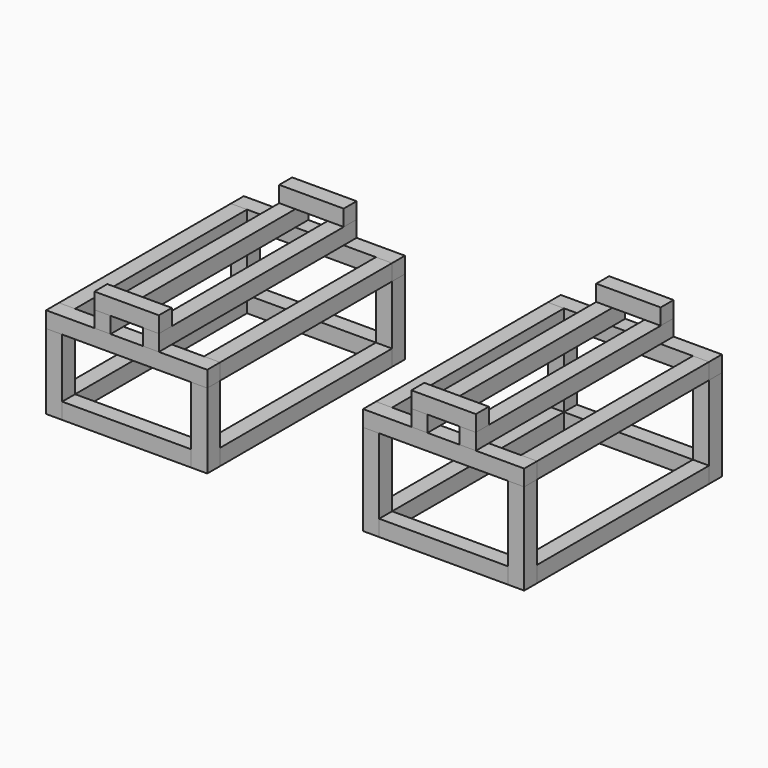
from build123d import *

# Parameters (mm, degrees)
F1_W      = 30
F1_H      = 460
F2_DEPTH  = 30
F4_W      = 300
F4_H      = 30
F5_DEPTH  = 30
F6_W      = 30
F6_H      = 30
F7_DEPTH  = 140
F8_W      = 30
F8_H      = 30
F9_DEPTH  = 240
F10_W     = 30
F10_H     = 30
F11_DEPTH = 400
F12_W     = 120
F12_H     = 30
F13_DEPTH = 30
F14_W     = 300
F14_H     = 30
F15_DEPTH = 30
F16_W     = 30
F16_H     = 30
F17_DEPTH = 170
F18_W     = 30
F18_H     = 30
F19_DEPTH = 240
F20_W     = 30
F20_H     = 30
F21_DEPTH = 400
F22_W     = 120
F22_H     = 30
F23_DEPTH = 30


with BuildPart() as f2:
    # F1 (on offset) → F2 (new body)
    with BuildSketch(Plane.XY.offset(200)):
        with Locations((-250, 0)):
            Rectangle(F1_W, F1_H)
    extrude(amount=-F2_DEPTH)


with BuildPart() as f2b:
    # F1 (on offset) → F2, piece 2 (new body)
    with BuildSketch(Plane.XY.offset(200)):
        with Locations((-340, 0)):
            Rectangle(F1_W, F1_H)
    extrude(amount=-F2_DEPTH)


with BuildPart() as f2c:
    # F1 (on offset) → F2, piece 3 (new body)
    with BuildSketch(Plane.XY.offset(200)):
        with Locations((250, 0)):
            Rectangle(F1_W, F1_H)
    extrude(amount=-F2_DEPTH)


with BuildPart() as f2d:
    # F1 (on offset) → F2, piece 4 (new body)
    with BuildSketch(Plane.XY.offset(200)):
        with Locations((340, 0)):
            Rectangle(F1_W, F1_H)
    extrude(amount=-F2_DEPTH)


with BuildPart() as f2c_1:
    # F3: moved
    add(f2c.part.moved(Location((0, 0, 30))))


with BuildPart() as f2d_1:
    # F3: moved
    add(f2d.part.moved(Location((0, 0, 30))))


with BuildPart() as f5:
    # F4 (on face) → F5 (new body)
    with BuildSketch(Plane(origin=(0, 0, 170), x_dir=(1, 0, 0), z_dir=(0, 0, -1))):
        with Locations((-295, 215)):
            Rectangle(F4_W, F4_H)
    extrude(amount=F5_DEPTH)


with BuildPart() as f5b:
    # F4 (on face) → F5, piece 2 (new body)
    with BuildSketch(Plane(origin=(0, 0, 170), x_dir=(1, 0, 0), z_dir=(0, 0, -1))):
        with Locations((-295, -215)):
            Rectangle(F4_W, F4_H)
    extrude(amount=F5_DEPTH)


with BuildPart() as f7:
    # F6 (on Top) → F7 (new body, through all)
    with BuildSketch(Plane.XY):
        with Locations((-160, -215)):
            Rectangle(F6_W, F6_H)
    extrude(amount=F7_DEPTH)


with BuildPart() as f7b:
    # F6 (on Top) → F7, piece 2 (new body, through all)
    with BuildSketch(Plane.XY):
        with Locations((-160, 215)):
            Rectangle(F6_W, F6_H)
    extrude(amount=F7_DEPTH)


with BuildPart() as f7c:
    # F6 (on Top) → F7, piece 3 (new body, through all)
    with BuildSketch(Plane.XY):
        with Locations((-430, -215)):
            Rectangle(F6_W, F6_H)
    extrude(amount=F7_DEPTH)


with BuildPart() as f7d:
    # F6 (on Top) → F7, piece 4 (new body, through all)
    with BuildSketch(Plane.XY):
        with Locations((-430, 215)):
            Rectangle(F6_W, F6_H)
    extrude(amount=F7_DEPTH)


with BuildPart() as f9:
    # F8 (on face) → F9 (new body, through all)
    with BuildSketch(Plane.YZ.offset(-415)):
        with Locations((-215, 15)):
            Rectangle(F8_W, F8_H)
    extrude(amount=F9_DEPTH)


with BuildPart() as f9b:
    # F8 (on face) → F9, piece 2 (new body, through all)
    with BuildSketch(Plane.YZ.offset(-415)):
        with Locations((215, 15)):
            Rectangle(F8_W, F8_H)
    extrude(amount=F9_DEPTH)


with BuildPart() as f11:
    # F10 (on face) → F11 (new body, through all)
    with BuildSketch(Plane.XZ.offset(-200)):
        with Locations((-430, 15)):
            Rectangle(F10_W, F10_H)
    extrude(amount=F11_DEPTH)


with BuildPart() as f11b:
    # F10 (on face) → F11, piece 2 (new body, through all)
    with BuildSketch(Plane.XZ.offset(-200)):
        with Locations((-160, 15)):
            Rectangle(F10_W, F10_H)
    extrude(amount=F11_DEPTH)


with BuildPart() as f11c:
    # F10 (on face) → F11, piece 3 (new body, through all)
    with BuildSketch(Plane.XZ.offset(-200)):
        with Locations((-430, 155)):
            Rectangle(F10_W, F10_H)
    extrude(amount=F11_DEPTH)


with BuildPart() as f11d:
    # F10 (on face) → F11, piece 4 (new body, through all)
    with BuildSketch(Plane.XZ.offset(-200)):
        with Locations((-160, 155)):
            Rectangle(F10_W, F10_H)
    extrude(amount=F11_DEPTH)


with BuildPart() as f13:
    # F12 (on face) → F13 (new body)
    with BuildSketch(Plane.XY.offset(200)):
        with Locations((-295, -215)):
            Rectangle(F12_W, F12_H)
    extrude(amount=F13_DEPTH)


with BuildPart() as f13b:
    # F12 (on face) → F13, piece 2 (new body)
    with BuildSketch(Plane.XY.offset(200)):
        with Locations((-295, 215)):
            Rectangle(F12_W, F12_H)
    extrude(amount=F13_DEPTH)


with BuildPart() as f15:
    # F14 (on face) → F15 (new body)
    with BuildSketch(Plane(origin=(0, 0, 200), x_dir=(1, 0, 0), z_dir=(0, 0, -1))):
        with Locations((295, 215)):
            Rectangle(F14_W, F14_H)
    extrude(amount=F15_DEPTH)


with BuildPart() as f15b:
    # F14 (on face) → F15, piece 2 (new body)
    with BuildSketch(Plane(origin=(0, 0, 200), x_dir=(1, 0, 0), z_dir=(0, 0, -1))):
        with Locations((295, -215)):
            Rectangle(F14_W, F14_H)
    extrude(amount=F15_DEPTH)


with BuildPart() as f17:
    # F16 (on Top) → F17 (new body, through all)
    with BuildSketch(Plane.XY):
        with Locations((160, -215)):
            Rectangle(F16_W, F16_H)
    extrude(amount=F17_DEPTH)


with BuildPart() as f17b:
    # F16 (on Top) → F17, piece 2 (new body, through all)
    with BuildSketch(Plane.XY):
        with Locations((430, -215)):
            Rectangle(F16_W, F16_H)
    extrude(amount=F17_DEPTH)


with BuildPart() as f17c:
    # F16 (on Top) → F17, piece 3 (new body, through all)
    with BuildSketch(Plane.XY):
        with Locations((430, 215)):
            Rectangle(F16_W, F16_H)
    extrude(amount=F17_DEPTH)


with BuildPart() as f17d:
    # F16 (on Top) → F17, piece 4 (new body, through all)
    with BuildSketch(Plane.XY):
        with Locations((160, 215)):
            Rectangle(F16_W, F16_H)
    extrude(amount=F17_DEPTH)


with BuildPart() as f19:
    # F18 (on face) → F19 (new body, through all)
    with BuildSketch(Plane.YZ.offset(175)):
        with Locations((-215, 15)):
            Rectangle(F18_W, F18_H)
    extrude(amount=F19_DEPTH)


with BuildPart() as f19b:
    # F18 (on face) → F19, piece 2 (new body, through all)
    with BuildSketch(Plane.YZ.offset(175)):
        with Locations((215, 15)):
            Rectangle(F18_W, F18_H)
    extrude(amount=F19_DEPTH)


with BuildPart() as f21:
    # F20 (on face) → F21 (new body, through all)
    with BuildSketch(Plane(origin=(0, -200, 0), x_dir=(-1, 0, 0), z_dir=(0, 1, 0))):
        with Locations((-160, 15)):
            Rectangle(F20_W, F20_H)
    extrude(amount=F21_DEPTH)


with BuildPart() as f21b:
    # F20 (on face) → F21, piece 2 (new body, through all)
    with BuildSketch(Plane(origin=(0, -200, 0), x_dir=(-1, 0, 0), z_dir=(0, 1, 0))):
        with Locations((-430, 15)):
            Rectangle(F20_W, F20_H)
    extrude(amount=F21_DEPTH)


with BuildPart() as f21c:
    # F20 (on face) → F21, piece 3 (new body, through all)
    with BuildSketch(Plane(origin=(0, -200, 0), x_dir=(-1, 0, 0), z_dir=(0, 1, 0))):
        with Locations((-430, 185)):
            Rectangle(F20_W, F20_H)
    extrude(amount=F21_DEPTH)


with BuildPart() as f21d:
    # F20 (on face) → F21, piece 4 (new body, through all)
    with BuildSketch(Plane(origin=(0, -200, 0), x_dir=(-1, 0, 0), z_dir=(0, 1, 0))):
        with Locations((-160, 185)):
            Rectangle(F20_W, F20_H)
    extrude(amount=F21_DEPTH)


with BuildPart() as f23:
    # F22 (on face) → F23 (new body)
    with BuildSketch(Plane.XY.offset(230)):
        with Locations((295, 215)):
            Rectangle(F22_W, F22_H)
    extrude(amount=F23_DEPTH)


with BuildPart() as f23b:
    # F22 (on face) → F23, piece 2 (new body)
    with BuildSketch(Plane.XY.offset(230)):
        with Locations((295, -215)):
            Rectangle(F22_W, F22_H)
    extrude(amount=F23_DEPTH)


solid = Compound([f2.part, f2b.part, f2c_1.part, f2d_1.part, f5.part, f5b.part, f7.part, f7b.part, f7c.part, f7d.part, f9.part, f9b.part, f11.part, f11b.part, f11c.part, f11d.part, f13.part, f13b.part, f15.part, f15b.part, f17.part, f17b.part, f17c.part, f17d.part, f19.part, f19b.part, f21.part, f21b.part, f21c.part, f21d.part, f23.part, f23b.part])
